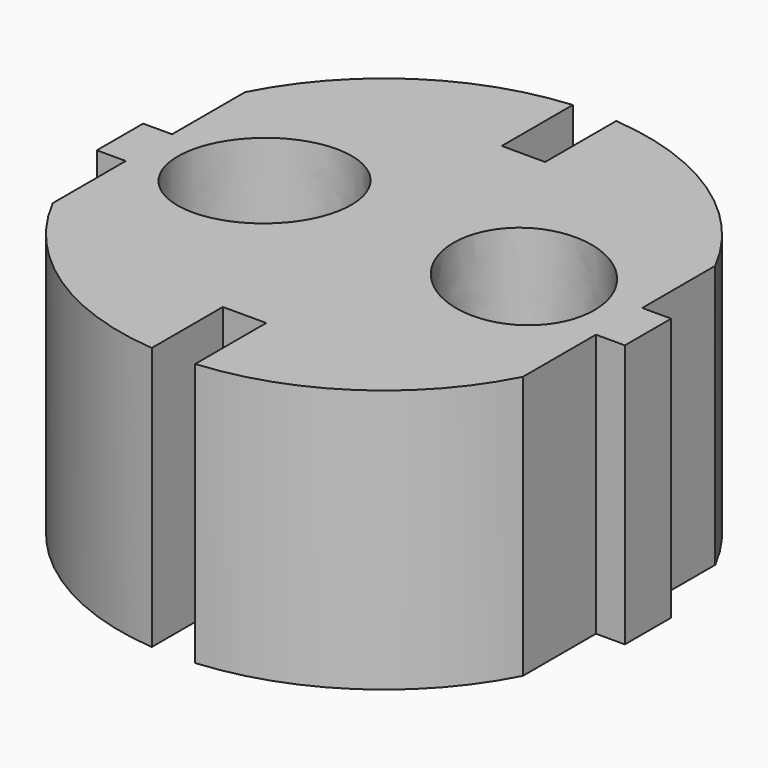
from build123d import *

# Parameters (mm, degrees)
F1_DEPTH = 18.2


with BuildPart() as f1:
    # F0 (on Top) → F1 (new body)
    with BuildSketch(Plane.XY):
        with BuildLine():
            Line((16.25, 2), (16.25, 8.306624))
            ThreePointArc((16.25, 8.306624), (10.157621, 15.161967), (1.5, 18.188252))
            Line((1.5, 18.188252), (1.5, 12.05))
            Line((1.5, 12.05), (0, 12.05))
            Line((0, 12.05), (-1.5, 12.05))
            Line((-1.5, 12.05), (-1.5, 18.188252))
            ThreePointArc((-1.5, 18.188252), (-10.157621, 15.161967), (-16.25, 8.306624))
            Line((-16.25, 8.306624), (-16.25, 2))
            Line((-16.25, 2), (-18.25, 2))
            Line((-18.25, 2), (-18.25, 0))
            Line((-18.25, 0), (-18.25, -2))
            Line((-18.25, -2), (-16.25, -2))
            Line((-16.25, -2), (-16.25, -8.306624))
            ThreePointArc((-16.25, -8.306624), (-10.157621, -15.161967), (-1.5, -18.188252))
            Line((-1.5, -18.188252), (-1.5, -12.05))
            Line((-1.5, -12.05), (0, -12.05))
            Line((0, -12.05), (1.5, -12.05))
            Line((1.5, -12.05), (1.5, -18.188252))
            ThreePointArc((1.5, -18.188252), (10.157621, -15.161967), (16.25, -8.306624))
            Line((16.25, -8.306624), (16.25, -2))
            Line((16.25, -2), (18.25, -2))
            Line((18.25, -2), (18.25, 0))
            Line((18.25, 0), (18.25, 2))
            Line((18.25, 2), (16.25, 2))
        make_face()
        with BuildLine():
            add(Edge.make_bspline(
                [(-4.624377, 4.617039), (-10.276395, 11.189988), (-13.963516, 2.302933), (-17.650637, -6.584122), (-8.311498, -4.270016), (1.027641, -1.95591), (-4.624377, 4.617039)],
                knots=[0, 0, 0, 2.094395, 2.094395, 4.18879, 4.18879, 6.283185, 6.283185, 6.283185], degree=2, weights=[1, 0.5, 1, 0.5, 1, 0.5, 1]))
        make_face(mode=Mode.SUBTRACT)
        with BuildLine():
            add(Edge.make_bspline(
                [(4.624377, 4.617039), (-1.027641, -1.95591), (8.311498, -4.270016), (17.650637, -6.584122), (13.963516, 2.302933), (10.276395, 11.189988), (4.624377, 4.617039)],
                knots=[0, 0, 0, 2.094395, 2.094395, 4.18879, 4.18879, 6.283185, 6.283185, 6.283185], degree=2, weights=[1, 0.5, 1, 0.5, 1, 0.5, 1]))
        make_face(mode=Mode.SUBTRACT)
    extrude(amount=F1_DEPTH)


solid = f1.part
